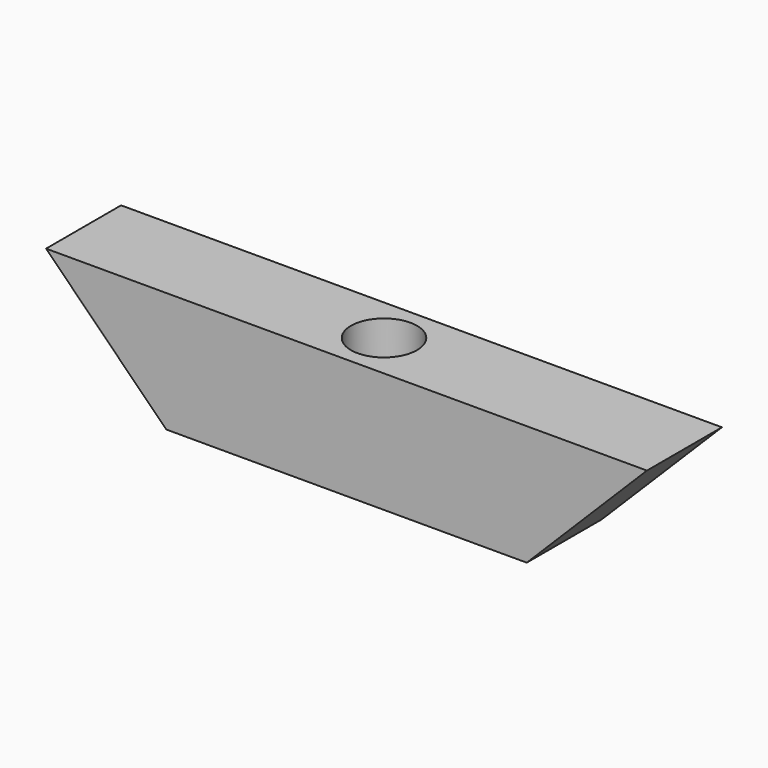
from build123d import *

# Parameters (mm, degrees)
F1_DEPTH = 3.9
F3_D     = 5.5
F3_DEPTH = 8
F3_TIP   = 1.6523667023


with BuildPart() as f1:
    # F0 (on Front) → F1 (new body, symmetric)
    with BuildSketch(Plane.XZ):
        Polygon((-25, 10), (-15, 0), (15, 0), (25, 10), align=None)
    extrude(amount=F1_DEPTH, both=True)

    # F3
    with Locations(Plane.XY.offset(10)):
        with Locations((0, 0)):
            Hole(F3_D / 2, depth=F3_DEPTH)
            with Locations((0, 0, -(F3_DEPTH + F3_TIP / 2))):  # 118° drill point
                Cone(0, F3_D / 2, F3_TIP, mode=Mode.SUBTRACT)


solid = f1.part
